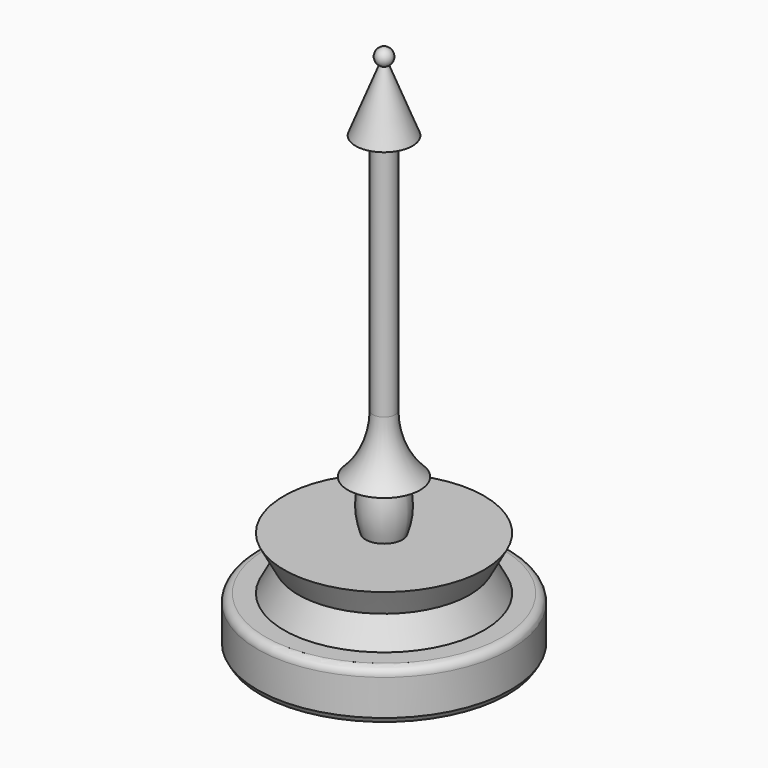
from build123d import *


with BuildPart() as f1:
    # F0 (on Front) → F1 (revolve)
    with BuildSketch(Plane.XZ):
        with BuildLine():
            Line((0, 0), (15.367, 0))
            Line((15.367, 0), (15.748, 0.635))
            Line((15.748, 0.635), (15.748, 5.08))
            ThreePointArc((15.748, 5.08), (15.45042, 5.79842), (14.732, 6.096))
            Line((14.732, 6.096), (12.446, 6.096))
            Line((12.446, 6.096), (10.668, 9.398))
            Line((10.668, 9.398), (12.446, 12.7))
            Line((12.446, 12.7), (2.286, 12.7))
            ThreePointArc((2.286, 12.7), (2.816039, 15.7737), (2.286, 18.8474))
            Line((2.286, 18.8474), (4.489498, 18.8474))
            ThreePointArc((4.489498, 18.8474), (2.205484, 22.156792), (1.401251, 26.09659))
            Line((1.401251, 26.09659), (1.401251, 56.192838))
            Line((1.401251, 56.192838), (3.532426, 56.192838))
            Line((3.532426, 56.192838), (0.475527, 63.946038))
            ThreePointArc((0.475527, 63.946038), (0.982077, 65.084624), (0, 65.85176))
            Line((0, 65.85176), (0, 0))
        make_face()
    revolve(axis=Axis((0, 0, 32.92588), (0, 0, -1)))


solid = f1.part
